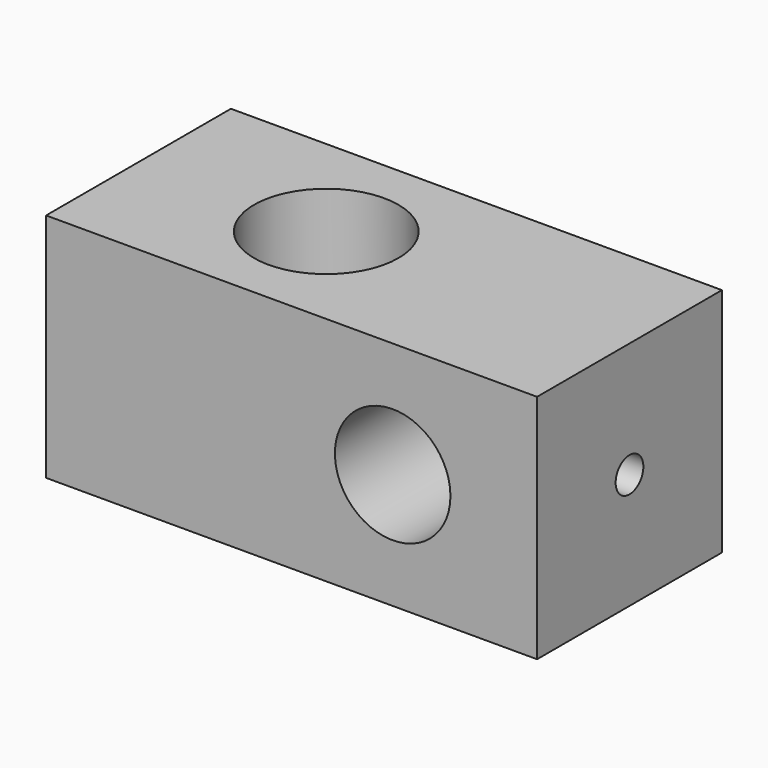
from build123d import *

# Parameters (mm, degrees)
F0_W     = 85
F0_H     = 40
F0_R     = 10
F1_DEPTH = 40
F2_R     = 12.5
F3_DEPTH = 40.001
F4_R     = 3
F5_DEPTH = 25
F6_R     = 3
F7_DEPTH = 25


with BuildPart() as f1:
    # F0 (on Front) → F1 (new body)
    with BuildSketch(Plane.XZ):
        with Locations((42.5, 20)):
            Rectangle(F0_W, F0_H)
        with Locations((60, 20)):
            Circle(F0_R, mode=Mode.SUBTRACT)
    extrude(amount=F1_DEPTH)

    # F2 (on face) → F3 (cut, through all)
    with BuildSketch(Plane.XY.offset(40)):
        with Locations((32.5, -20)):
            Circle(F2_R)
    extrude(amount=-F3_DEPTH, mode=Mode.SUBTRACT)

    # F4 (on face) → F5 (cut)
    with BuildSketch(Plane.YZ.offset(85)):
        with Locations((-20, 20)):
            Circle(F4_R)
    extrude(amount=-F5_DEPTH, mode=Mode.SUBTRACT)

    # F6 (on face) → F7 (cut)
    with BuildSketch(Plane(origin=(0, 0, 0), x_dir=(0, -1, 0), z_dir=(-1, 0, 0))):
        with Locations((20, 20)):
            Circle(F6_R)
    extrude(amount=-F7_DEPTH, mode=Mode.SUBTRACT)


solid = f1.part
